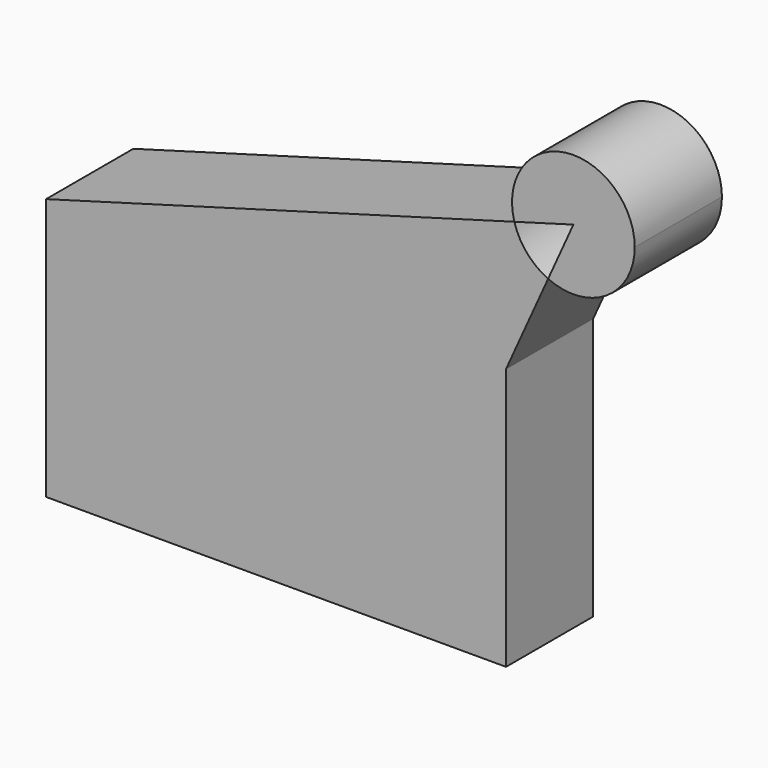
from build123d import *

# Parameters (mm, degrees)
F1_DEPTH = 25.4
F0_W     = 107.1620831804
F0_H     = 61.0924064801


with BuildPart() as f1:
    # F0 (on Front) → F1 (new body)
    with BuildSketch(Plane.XZ):
        with BuildLine():
            Line((69.2714384393, 65.2653830506), (63.3869628326, 52.2444143239))
            ThreePointArc((63.3869628326, 52.2444143239), (77.020309094, 53.2600640908), (83.5603390181, 65.2653830506))
            ThreePointArc((83.5603390181, 65.2653830506), (67.3098841513, 79.4190039485), (55.5210950721, 61.3794163716))
            Line((55.5210950721, 61.3794163716), (69.2714384393, 65.2653830506))
        make_face()
    extrude(amount=F1_DEPTH)


with BuildPart() as f1b:
    # F0 (on Front) → F1, piece 2 (new body)
    with BuildSketch(Plane.XZ):
        Rectangle(F0_W, F0_H)
        with BuildLine():
            Line((-53.5810415902, 30.54620324), (53.5810415902, 30.54620324))
            Line((53.5810415902, 30.54620324), (63.3869628326, 52.2444143239))
            ThreePointArc((63.3869628326, 52.2444143239), (58.4435303016, 55.9418062096), (55.5210950721, 61.3794163716))
            Line((55.5210950721, 61.3794163716), (-53.5810415902, 30.54620324))
        make_face()
    extrude(amount=F1_DEPTH)


solid = Compound([f1.part, f1b.part])
